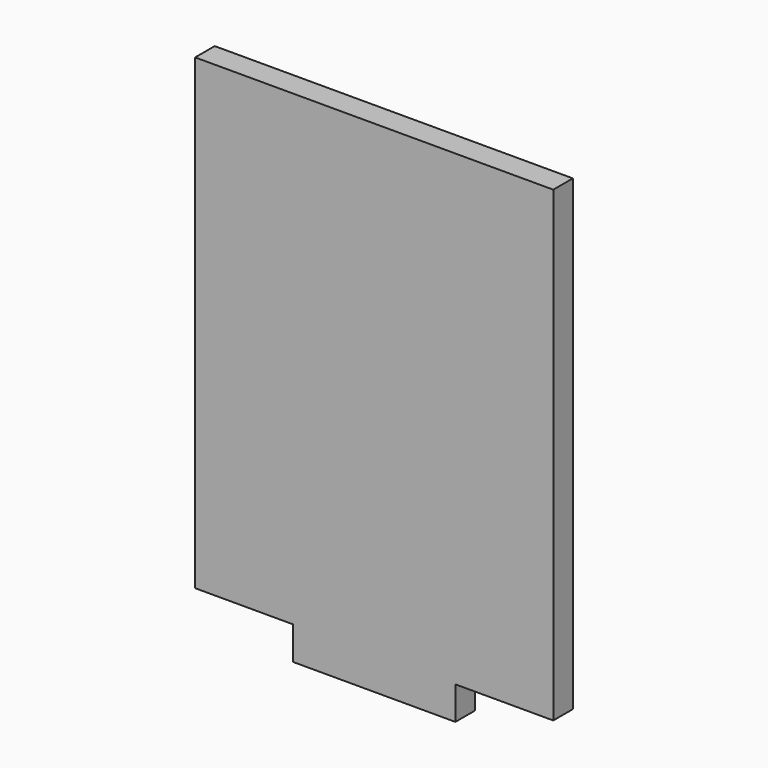
from build123d import *

# Parameters (mm, degrees)
F0_W     = 76.2
F0_H     = 106.4723501976
F1_DEPTH = 5.207
F2_W     = 20.828
F2_H     = 7.0416366247
F3_DEPTH = 5.207


with BuildPart() as f1:
    # F0 (on Front) → F1 (new body)
    with BuildSketch(Plane.XZ):
        Rectangle(F0_W, F0_H)
    extrude(amount=F1_DEPTH)

    # F2 (on face) → F3 (cut, through all)
    with BuildSketch(Plane(origin=(0, 0, 0), x_dir=(-1, 0, 0), z_dir=(0, 1, 0))):
        with Locations((27.686, -49.7153567864)):
            Rectangle(F2_W, F2_H)
        with Locations((-27.686, -49.7153567864)):
            Rectangle(F2_W, F2_H)
    extrude(amount=-F3_DEPTH, mode=Mode.SUBTRACT)


solid = f1.part
